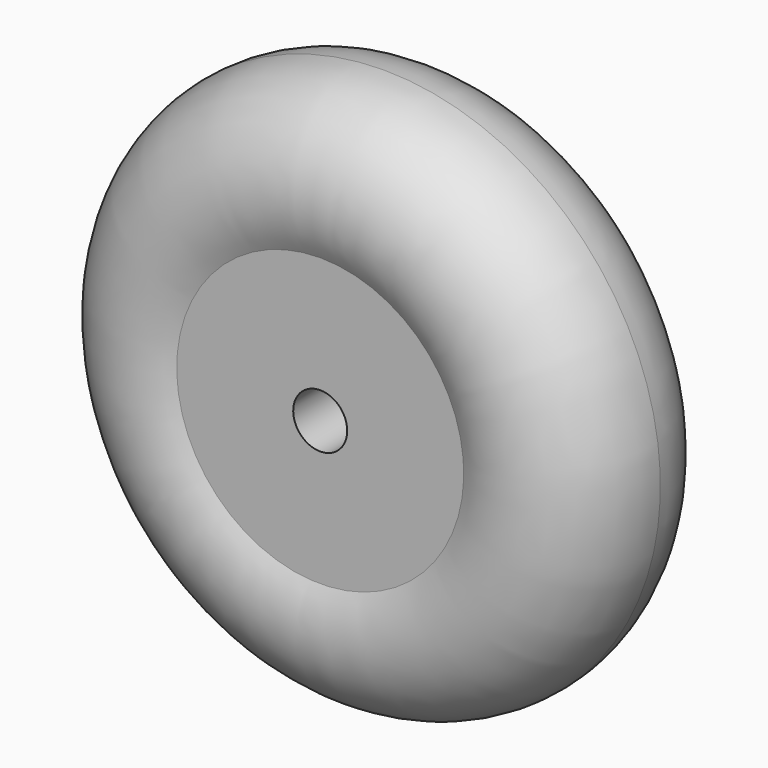
from build123d import *


with BuildPart() as f1:
    # F0 (on Right) → F1 (revolve)
    with BuildSketch(Plane.YZ):
        with BuildLine():
            Line((-37.5, 12.7), (0, 12.7))
            Line((0, 12.7), (0, 45))
            ThreePointArc((0, 45), (-21.86607, 51.056551), (-37.5, 67.5))
            Line((-37.5, 67.5), (-37.5, 12.7))
        make_face()
        with BuildLine():
            Line((0, 45), (0, 12.7))
            Line((0, 12.7), (37.5, 12.7))
            Line((37.5, 12.7), (37.5, 67.5))
            ThreePointArc((37.5, 67.5), (21.86607, 51.056551), (0, 45))
        make_face()
        with BuildLine():
            Line((0, 130), (0, 45))
            ThreePointArc((0, 45), (21.86607, 51.056551), (37.5, 67.5))
            ThreePointArc((37.5, 67.5), (41.231056, 77.192236), (42.5, 87.5))
            ThreePointArc((42.5, 87.5), (30.052038, 117.552038), (0, 130))
        make_face()
        with BuildLine():
            ThreePointArc((-37.5, 67.5), (-21.86607, 51.056551), (0, 45))
            Line((0, 45), (0, 130))
            ThreePointArc((0, 130), (-36.443449, 109.36607), (-37.5, 67.5))
        make_face()
    revolve(axis=Axis((0, 18.75, 0), (0, 1, 0)))


solid = f1.part
